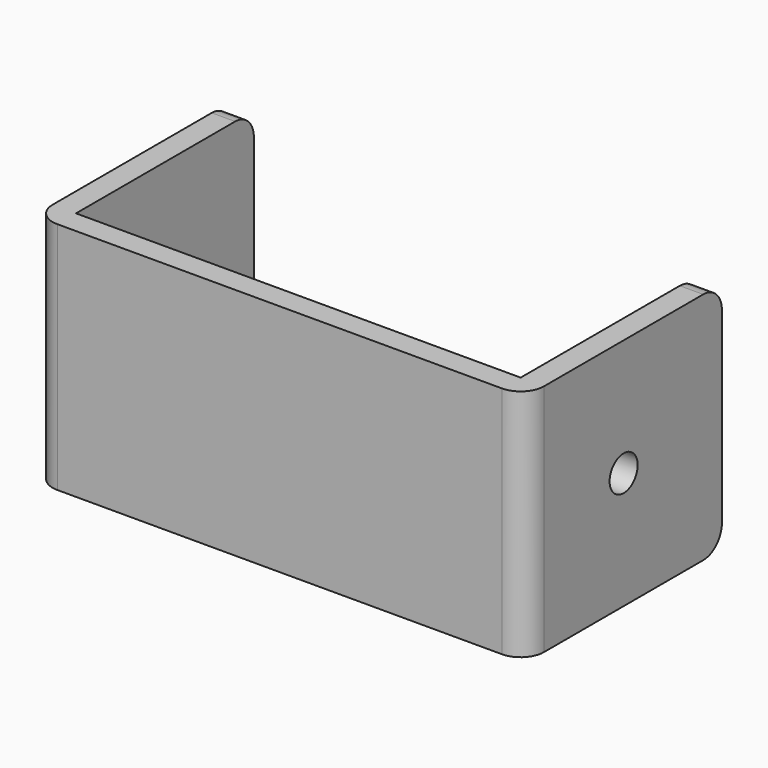
from build123d import *

# Parameters (mm, degrees)
F1_W     = 2.54
F1_H     = 25.4
F3_R     = 1.905
F5_DEPTH = 2.54
F4_R     = 1.905
F6_DEPTH = 2.54
F7_R     = 2.54


with BuildPart() as f2:
    # F2: sweep along a path in F0
    with BuildLine(Plane.XY) as f2_path:
        Line((-50.8, 0), (-50.8, -25.4))
        Line((-50.8, -25.4), (0, -25.4))
        Line((0, -25.4), (0, 0))
    # F1 (on Front) → F2 (sweep)
    with BuildSketch(Plane.XZ):
        Rectangle(F1_W, F1_H)
    sweep(path=f2_path.line, transition=Transition.RIGHT)

    # F3 (on face) → F5 (cut, through all)
    with BuildSketch(Plane.YZ.offset(1.27)):
        with Locations((-13.335, 0)):
            Circle(F3_R)
    extrude(amount=-F5_DEPTH, mode=Mode.SUBTRACT)

    # F4 (on face) → F6 (cut, through all)
    with BuildSketch(Plane(origin=(-52.07, 0, 0), x_dir=(0, -1, 0), z_dir=(-1, 0, 0))):
        with Locations((13.335, 0)):
            Circle(F4_R)
    extrude(amount=-F6_DEPTH, mode=Mode.SUBTRACT)

    # F7
    f7_edges = [f2.edges().sort_by_distance(p)[0] for p in [
        (-50.8, 0, 12.7),
        (-50.8, 0, -12.7),
        (0, 0, -12.7),
        (0, 0, 12.7),
        (1.27, -26.67, 0),
        (-52.07, -26.67, 0),
    ]]
    fillet(f7_edges, radius=F7_R)


solid = f2.part
